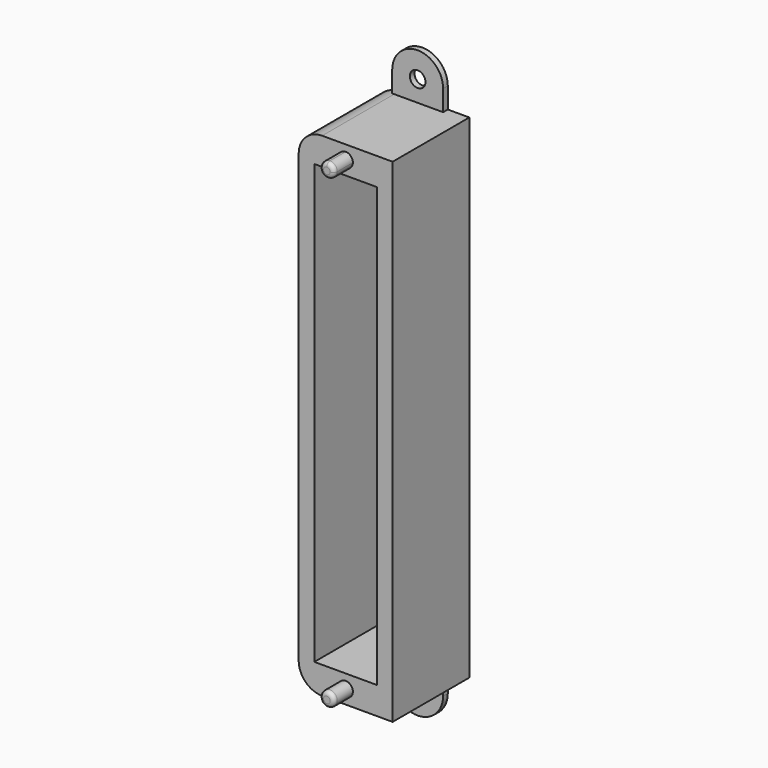
from build123d import *

# Parameters (mm, degrees)
F0_W     = 24
F0_H     = 126
F0_W_2   = 16
F0_H_2   = 112
F1_DEPTH = 24.5
F2_DEPTH = 2
F3_R     = 1.85
F4_DEPTH = 6
F5_R     = 6
F6_R     = 2
F7_DEPTH = 1.5
F8_R     = 1


with BuildPart() as f1:
    # F0 (on Front) → F1 (new body)
    with BuildSketch(Plane.XZ):
        Rectangle(F0_W, F0_H)
        Rectangle(F0_W_2, F0_H_2, mode=Mode.SUBTRACT)
    extrude(amount=F1_DEPTH)

    # F0 (on Front) → F2 (join)
    with BuildSketch(Plane.XZ):
        Rectangle(F0_W_2, F0_H_2)
    extrude(amount=F2_DEPTH)

    # F3 (on face) → F4 (join)
    with BuildSketch(Plane.XZ.offset(24.5)):
        with BuildLine():
            ThreePointArc((0, 57.65), (1.3081475452, 58.1918524548), (1.85, 59.5))
            ThreePointArc((1.85, 59.5), (1.3081475452, 60.8081475452), (0, 61.35))
            Line((0, 61.35), (0, 57.65))
        make_face()
        with BuildLine():
            Line((0, 57.65), (0, 61.35))
            ThreePointArc((0, 61.35), (-1.85, 59.5), (0, 57.65))
        make_face()
        with Locations((0, -59.5)):
            Circle(F3_R)
    extrude(amount=F4_DEPTH)

    # F5
    f5_edges = [f1.edges().sort_by_distance(p)[0] for p in [
        (-12, -12.25, -63),
        (-12, -12.25, 63),
    ]]
    fillet(f5_edges, radius=F5_R)

    # F6 (on Front) → F7 (join)
    with BuildSketch(Plane.XZ):
        with BuildLine():
            Line((6.5, 63), (6.5, 68.3245120645))
            ThreePointArc((6.5, 68.3245120645), (0, 74.8245120645), (-6.5, 68.3245120645))
            Line((-6.5, 68.3245120645), (-6.5, 63))
            Line((-6.5, 63), (-6, 63))
            Line((-6, 63), (6.5, 63))
        make_face()
        with Locations((0, 68.3245120645)):
            Circle(F6_R, mode=Mode.SUBTRACT)
        with BuildLine():
            ThreePointArc((-6.5, 62.9791303716), (-6.2502176759, 62.9947803225), (-6, 63))
            Line((-6, 63), (-6.5, 63))
            Line((-6.5, 63), (-6.5, 62.9791303716))
        make_face()
        with BuildLine():
            ThreePointArc((-6.5, -68.3245120645), (0, -74.8245120645), (6.5, -68.3245120645))
            Line((6.5, -68.3245120645), (6.5, -63))
            Line((6.5, -63), (-6, -63))
            ThreePointArc((-6, -63), (-6.2502176759, -62.9947803225), (-6.5, -62.9791303716))
            Line((-6.5, -62.9791303716), (-6.5, -68.3245120645))
        make_face()
        with Locations((0, -68.3245120645)):
            Circle(F6_R, mode=Mode.SUBTRACT)
    extrude(amount=F7_DEPTH)

    # F8
    f8_edges = [f1.edges().sort_by_distance(p)[0] for p in [
        (-1.85, -30.5, 59.5),
        (-1.85, -30.5, -59.5),
    ]]
    fillet(f8_edges, radius=F8_R)


solid = f1.part
